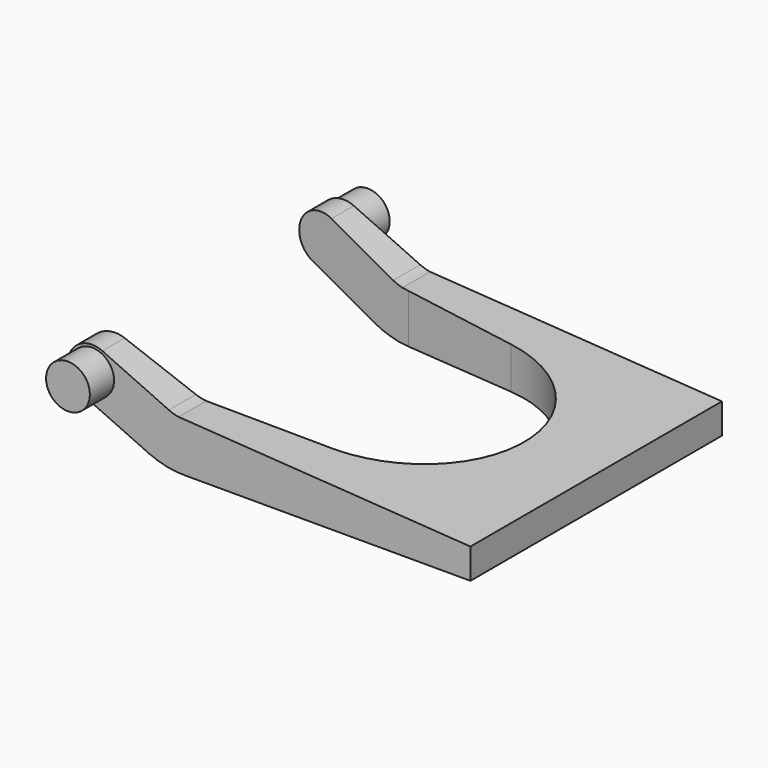
from build123d import *

# Parameters (mm, degrees)
F1_DEPTH = 26.416
F2_R     = 1.8415
F3_DEPTH = 2.54
F7_DEPTH = 7.62


with BuildPart() as f1:
    # F0 (on Front) → F1 (new body)
    with BuildSketch(Plane.XZ):
        with BuildLine():
            Line((-4.9881667079, -6.5078052628), (18.9825711812, -6.5078052628))
            Line((18.9825711812, -6.5078052628), (18.9825711812, -3.9678052628))
            Line((18.9825711812, -3.9678052628), (-5.5439422008, -2.3553312877))
            ThreePointArc((-5.5439422008, -2.3553312877), (-5.9622258253, -2.2601628666), (-6.3636870308, -2.1090102306))
            Line((-6.3636870308, -2.1090102306), (-11.9552752015, 0.4437738695))
            ThreePointArc((-11.9552752015, 0.4437738695), (-14.6813052169, -0.5733543796), (-13.6641769678, -3.299384395))
            Line((-13.6641769678, -3.299384395), (-8.0725887971, -5.8521684951))
            ThreePointArc((-8.0725887971, -5.8521684951), (-6.5663902888, -6.3494066979), (-4.9881667079, -6.5078052628))
        make_face()
    extrude(amount=F1_DEPTH)

    # F2 (on face) → F3 (join)
    with BuildSketch(Plane.XZ.offset(26.416)):
        with Locations((-12.8097260847, -1.4278052628)):
            Circle(F2_R)
    extrude(amount=F3_DEPTH)

    # F5: F1 across plane


with BuildPart() as f1_1:
    add(f1.part)
    add(f1.part.mirror(Plane(origin=(1.3145173971, -13.208, -4.2776395972), x_dir=(1, 0, 0), z_dir=(0, 1, 0))))


with BuildPart() as f7:
    # F6 (on face) → F7 (new body, symmetric)
    with BuildSketch(Plane(origin=(0, 0, -6.5078052628), x_dir=(1, 0, 0), z_dir=(0, 0, -1))):
        Polygon((-4.9881667079, 23.4607403946), (-16.556808725, 24.4735703084), (-16.556808725, 1.9424296916), (-4.9881667079, 2.9552596054), align=None)
        with BuildLine():
            Line((4.2894943617, 22.648484933), (-4.9881667079, 23.4607403946))
            Line((-4.9881667079, 23.4607403946), (-4.9881667079, 2.9552596054))
            Line((-4.9881667079, 2.9552596054), (4.2894943617, 3.767515067))
            ThreePointArc((4.2894943617, 3.767515067), (12.9395799393, 13.208), (4.2894943617, 22.648484933))
        make_face()
    extrude(amount=F7_DEPTH, both=True)


with BuildPart() as f1_2:
    add(f1_1.part)

    # F8: cut F7
    add(f7.part, mode=Mode.SUBTRACT)


solid = f1_2.part
